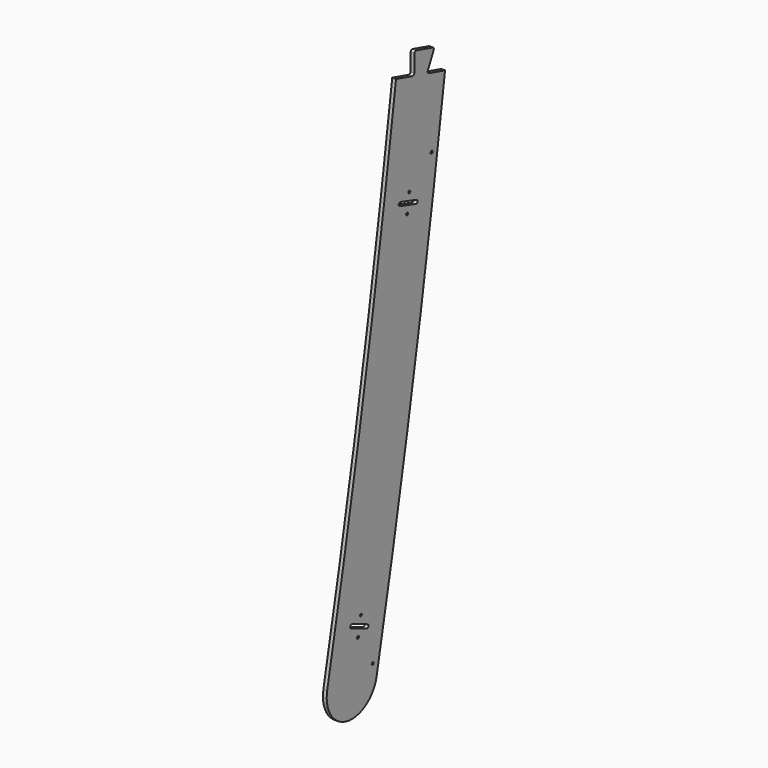
from build123d import *

# Parameters (mm, degrees)
PAD007_DEPTH    = 12
SKETCH017_R     = 4
POCKET003_DEPTH = 12.001
SKETCH042_R     = 4
HOLE009_DEPTH   = 610.001


with BuildPart() as side_left_bottom_part:
    # Sketch016 → Pad007 (new body)
    with BuildSketch(Plane.YZ):
        with BuildLine():
            ThreePointArc((-597.560459, -4876.606763), (-519.72621, -4994.682239), (-401.650734, -4916.84799))
            ThreePointArc((-401.650734, -4916.84799), (-253.112342, -4128.51152), (-130.4314, -3335.739529))
            Line((-195.221935, -3317.531256), (-130.4314, -3335.739529))
            ThreePointArc((-199.003331, -3309.149426), (-199.067813, -3314.222405), (-195.221935, -3317.531256))
            Line((-175.537372, -3260.47474), (-199.003331, -3309.149426))
            ThreePointArc((-175.537372, -3260.47474), (-175.47289, -3255.401761), (-179.318768, -3252.09291))
            Line((-244.109303, -3233.884637), (-179.318768, -3252.09291))
            ThreePointArc((-244.109303, -3233.884637), (-249.326998, -3234.856662), (-251.732171, -3239.58787))
            Line((-252.389603, -3293.61975), (-251.732171, -3239.58787))
            ThreePointArc((-260.01247, -3299.322983), (-254.794775, -3298.350957), (-252.389603, -3293.61975))
            Line((-324.803005, -3281.114709), (-260.01247, -3299.322983))
            ThreePointArc((-597.560459, -4876.606763), (-447.909647, -4081.129666), (-324.803005, -3281.114709))
        make_face()
    extrude(amount=PAD007_DEPTH)

    # Sketch017 → Pocket003 (cut, through all)
    with BuildSketch(Plane.YZ):
        with Locations((-464.310755, -4720.902056)):
            Circle(SKETCH017_R)
        with Locations((-475.70018, -4778.452535)):
            Circle(SKETCH017_R)
        with Locations((-272.113802, -3617.482184)):
            Circle(SKETCH017_R)
        with Locations((-280.914226, -3675.476508)):
            Circle(SKETCH017_R)
        with Locations((-130.873609, -2506.378514)):
            Circle(SKETCH017_R)
        with Locations((-137.037316, -2564.720482)):
            Circle(SKETCH017_R)
        with BuildLine():
            ThreePointArc((-63.5924, -1210.755644), (-69.621614, -1215.669765), (-64.707493, -1221.698978))
            Line((-64.707493, -1221.698978), (1.615745, -1228.457117))
            ThreePointArc((1.615745, -1228.457117), (7.644959, -1223.542997), (2.730838, -1217.513783))
            Line((2.730838, -1217.513783), (-63.5924, -1210.755644))
        make_face()
        with BuildLine():
            ThreePointArc((-33.541666, -94.499783), (-39.041666, -99.999783), (-33.541666, -105.499783))
            Line((-33.541666, -105.499783), (33.125001, -105.499783))
            ThreePointArc((33.125001, -105.499783), (38.625001, -99.999783), (33.125001, -94.499783))
            Line((33.125001, -94.499783), (-33.541666, -94.499783))
        make_face()
        with BuildLine():
            ThreePointArc((-165.386078, -2523.207318), (-171.913956, -2527.436597), (-167.684677, -2533.964476))
            Line((-167.684677, -2533.964476), (-102.489783, -2547.895382))
            ThreePointArc((-102.489783, -2547.895382), (-95.961904, -2543.666103), (-100.191183, -2537.138225))
            Line((-100.191183, -2537.138225), (-165.386078, -2523.207318))
        make_face()
        with BuildLine():
            ThreePointArc((-307.201152, -3631.252582), (-314.086519, -3634.870829), (-310.468272, -3641.756197))
            Line((-310.468272, -3641.756197), (-246.81, -3661.556925))
            ThreePointArc((-246.81, -3661.556925), (-239.924632, -3657.938678), (-243.542879, -3651.05331))
            Line((-243.542879, -3651.05331), (-307.201152, -3631.252582))
        make_face()
        with BuildLine():
            ThreePointArc((-498.714671, -4731.898869), (-505.894975, -4734.889394), (-502.90445, -4742.069697))
            Line((-502.90445, -4742.069697), (-441.263063, -4767.462292))
            ThreePointArc((-441.263063, -4767.462292), (-434.082759, -4764.471767), (-437.073284, -4757.291463))
            Line((-437.073284, -4757.291463), (-498.714671, -4731.898869))
        make_face()
    extrude(amount=POCKET003_DEPTH, mode=Mode.SUBTRACT)

    # Sketch042 (on Face1 of ShapeBinder002) → Hole009 (cut, through all)
    with BuildSketch(Plane.YZ.offset(610)):
        with Locations((-183.680954, -3542.695807)):
            Circle(SKETCH042_R)
        with Locations((-417.188268, -4875.410265)):
            Circle(SKETCH042_R)
    extrude(amount=-HOLE009_DEPTH, mode=Mode.SUBTRACT)


with BuildPart() as side_left_bottom_part_1:
    # Body008 placement: moved
    add(side_left_bottom_part.part.moved(Location((610, 0, 0))))


with BuildPart() as side_right_bottom_part:
    # Part__Mirroring004: instance of side_left_bottom_part
    add(side_left_bottom_part_1.part.mirror(Plane(origin=(0, 0, 0), x_dir=(0, -1, 0), z_dir=(1, 0, 0))))


solid = side_right_bottom_part.part
